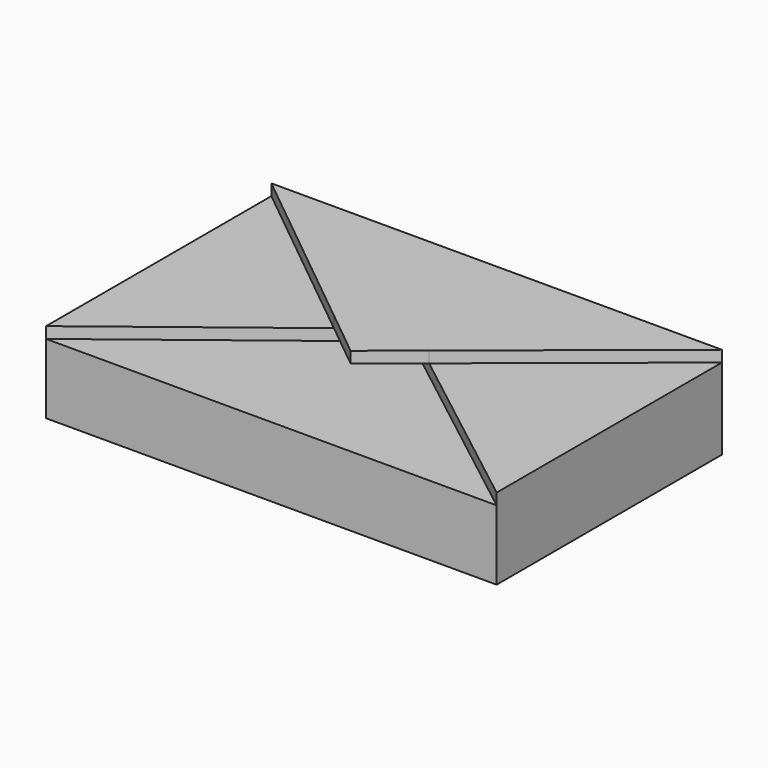
from build123d import *

# Parameters (mm, degrees)
F0_R     = 11.6
F0_R_2   = 9.6
F1_DEPTH = 5.2
F2_R     = 11.6
F2_R_2   = 9.6
F3_DEPTH = 2
F4_W     = 40
F4_H     = 25
F4_R     = 11.6
F5_DEPTH = 7.2
F7_DEPTH = 1
F9_DEPTH = 1


with BuildPart() as f1:
    # F0 (on Top) → F1 (new body)
    with BuildSketch(Plane.XY):
        Circle(F0_R)
        Circle(F0_R_2, mode=Mode.SUBTRACT)
    extrude(amount=F1_DEPTH)

    # F2 (on face) → F3 (join)
    with BuildSketch(Plane.XY.offset(5.2)):
        Circle(F2_R)
        Circle(F2_R_2, mode=Mode.SUBTRACT)
        Circle(F2_R_2)
    extrude(amount=F3_DEPTH)

    # F4 (on face) → F5 (join)
    with BuildSketch(Plane.XY.offset(7.2)):
        Rectangle(F4_W, F4_H)
        Circle(F4_R, mode=Mode.SUBTRACT)
    extrude(amount=-F5_DEPTH)

    # F6 (on face) → F7 (cut)
    with BuildSketch(Plane.XY.offset(7.2)):
        Polygon((0, 2.9988845345), (-20, -12.5), (20, -12.5), align=None)
    extrude(amount=-F7_DEPTH, mode=Mode.SUBTRACT)

    # F8 (on face) → F9 (join)
    with BuildSketch(Plane.XY.offset(7.2)):
        Polygon((20, 12.5), (-20, 12.5), (-4.2277933686, -0.2774195283), (0, 2.9988845345), (4.2277933686, -0.2774195283), align=None)
        Polygon((0, 2.9988845345), (-4.2277933686, -0.2774195283), (0, -3.702450078), (4.2277933686, -0.2774195283), align=None)
    extrude(amount=F9_DEPTH)


solid = f1.part
